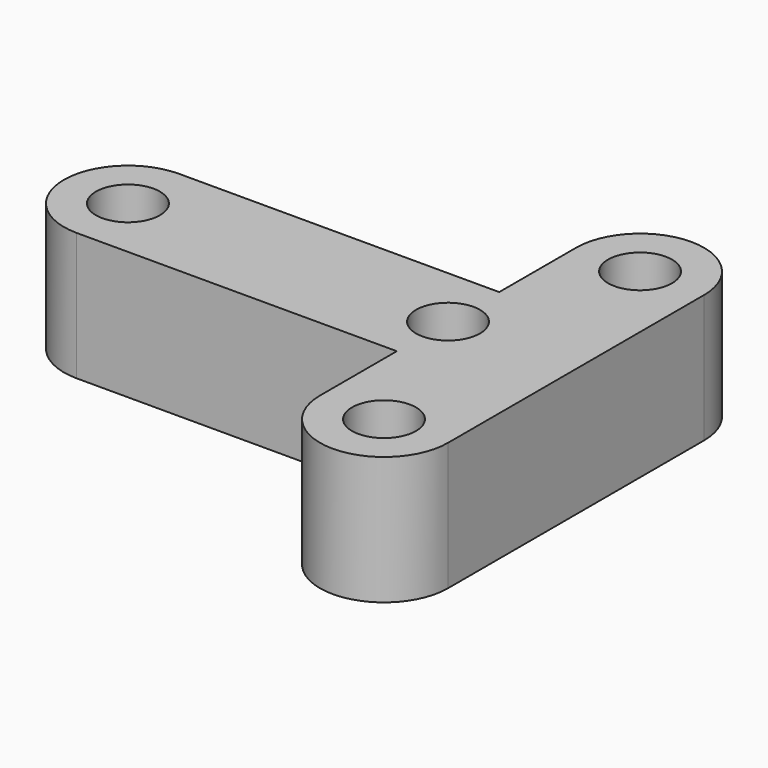
from build123d import *

# Parameters (mm, degrees)
F0_R     = 5
F1_DEPTH = 10


with BuildPart() as f1:
    # F0 (on Top) → F1 (new body, symmetric)
    with BuildSketch(Plane.XY):
        with BuildLine():
            Line((25, 25), (25, 10))
            Line((25, 10), (-25, 10))
            ThreePointArc((-25, 10), (-35, 0), (-25, -10))
            Line((-25, -10), (25, -10))
            Line((25, -10), (25, -25))
            ThreePointArc((25, -25), (35, -35), (45, -25))
            Line((45, -25), (45, 25))
            ThreePointArc((45, 25), (35, 35), (25, 25))
        make_face()
        with Locations((35, -25)):
            Circle(F0_R, mode=Mode.SUBTRACT)
        with Locations((-25, 0)):
            Circle(F0_R, mode=Mode.SUBTRACT)
        with Locations((25, 0)):
            Circle(F0_R, mode=Mode.SUBTRACT)
        with Locations((35, 25)):
            Circle(F0_R, mode=Mode.SUBTRACT)
    extrude(amount=F1_DEPTH, both=True)


solid = f1.part
